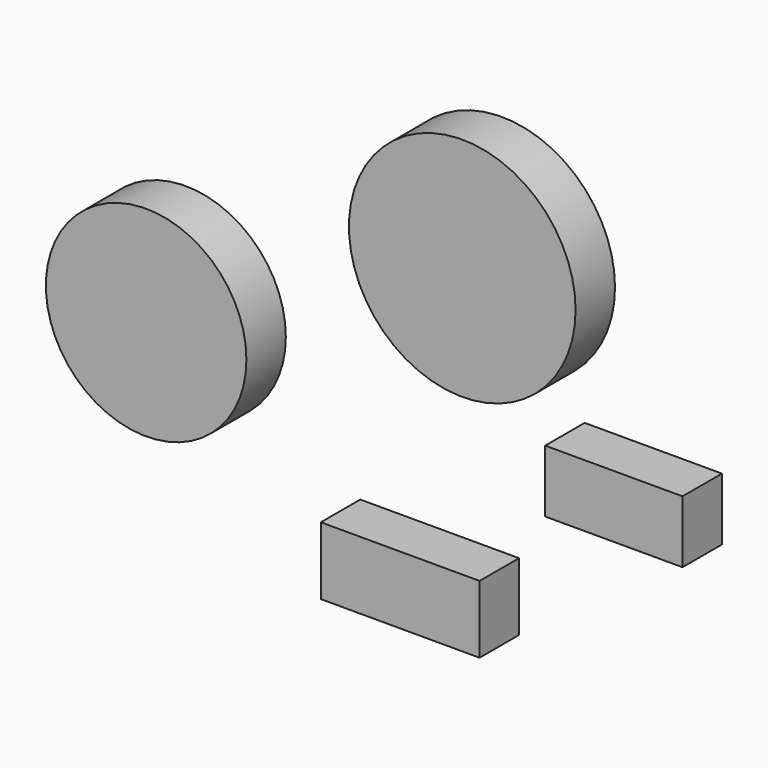
from build123d import *

# Parameters (mm, degrees)
F0_R     = 50.866382
F0_R_2   = 57.48797
F2_W     = 69.648493
F2_H     = 31.684121
F1_W     = 80.554798
F1_H     = 34.325894
F3_DEPTH = 25


with BuildPart() as f3:
    # F0 (on Front) + F2 (on Front) + F1 (on Front) → F3 (new body)
    with BuildSketch(Plane.XZ):
        with Locations((-169.170484, 0)):
            Circle(F0_R)
        with Locations((-8.792641, 76.419741)):
            Circle(F0_R_2)
    with BuildSketch(Plane.XZ):
        with Locations((68.117959, -4.954)):
            Rectangle(F2_W, F2_H)
    with BuildSketch(Plane.XZ):
        with Locations((-40.277399, -77.536086)):
            Rectangle(F1_W, F1_H)
    extrude(amount=F3_DEPTH)


solid = f3.part
